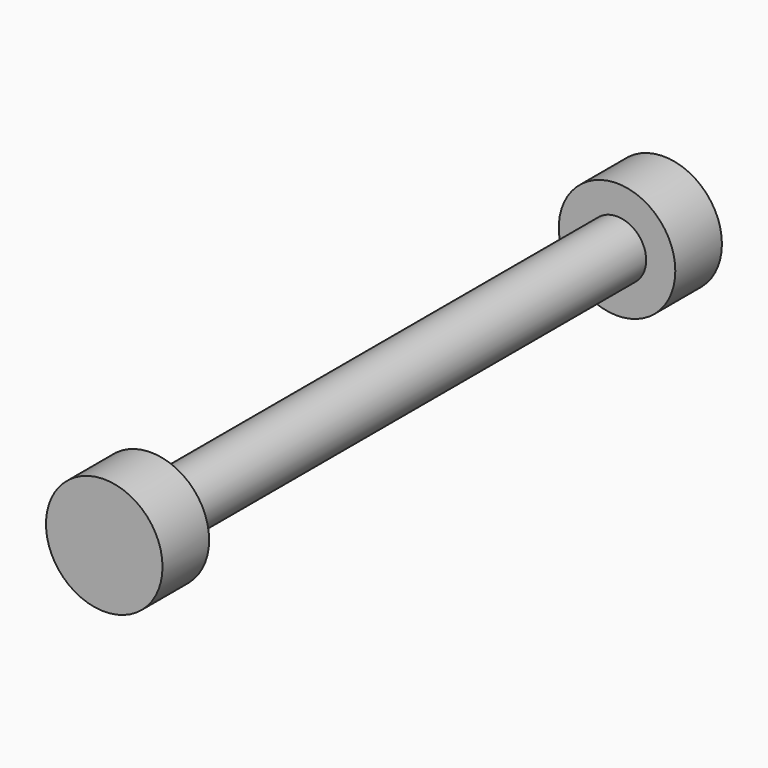
from build123d import *

# Parameters (mm, degrees)
F0_R     = 3.175
F1_DEPTH = 3.175
F2_R     = 1.5875
F3_DEPTH = 31.75
F4_R     = 3.175
F4_R_2   = 1.5875
F5_DEPTH = 3.175


with BuildPart() as f1:
    # F0 (on Front) → F1 (new body)
    with BuildSketch(Plane.XZ):
        Circle(F0_R)
    extrude(amount=F1_DEPTH)

    # F2 (on face) → F3 (join)
    with BuildSketch(Plane.XZ.offset(3.175)):
        Circle(F2_R)
    extrude(amount=F3_DEPTH)

    # F4 (on face) → F5 (join)
    with BuildSketch(Plane.XZ.offset(34.925)):
        Circle(F4_R)
        Circle(F4_R_2, mode=Mode.SUBTRACT)
        Circle(F4_R_2)
    extrude(amount=F5_DEPTH)


solid = f1.part
